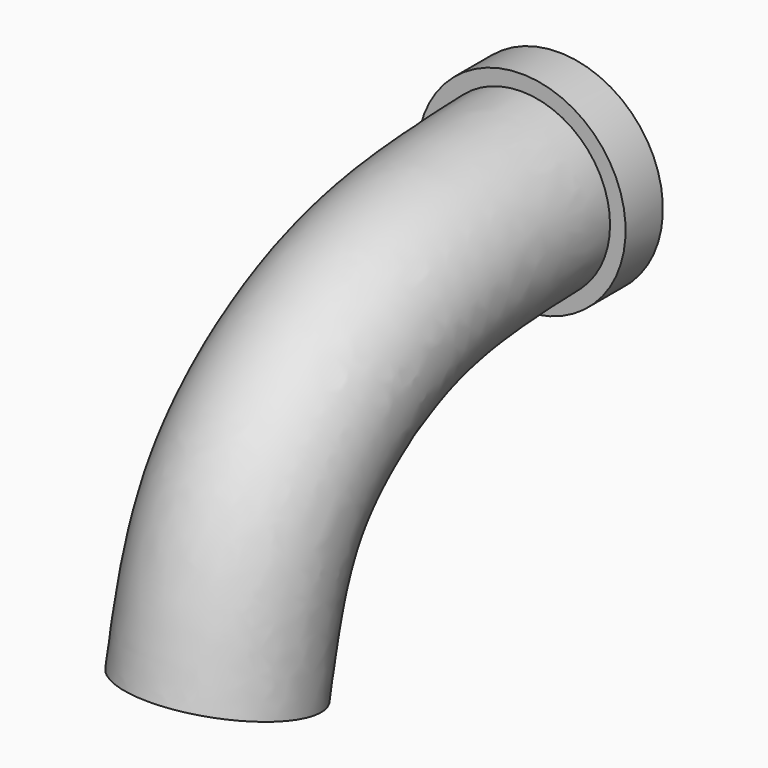
from build123d import *

# Parameters (mm, degrees)
F0_R     = 1.4478
F3_R     = 1.7018
F4_DEPTH = 0.762


with BuildPart() as f2:
    # F2: sweep along a path in F1
    with BuildLine(Plane.YZ) as f2_path:
        add(Plane.YZ * Edge.make_bspline(
            [(0, 4.5697018504), (-1.6398308189, 4.5151823734), (-3.2801432151, 4.3140872922), (-5.7075275739, 2.5815622312), (-6.0302006255, 0.8812580948), (-6.2090330757, 0)],
            knots=[0, 0, 0, 0, 0.3677846296, 0.6832593501, 1, 1, 1, 1], degree=3))
    # F0 (on Front) → F2 (sweep)
    with BuildSketch(Plane.XZ):
        with Locations((0, 4.572)):
            Circle(F0_R)
    sweep(path=f2_path.line)

    # F3 (on face) → F4 (join)
    with BuildSketch(Plane(origin=(0, 0, 0), x_dir=(-1, 0, 0), z_dir=(0, 1, 0))):
        with Locations((0, 4.572)):
            Circle(F3_R)
    extrude(amount=F4_DEPTH)


solid = f2.part
